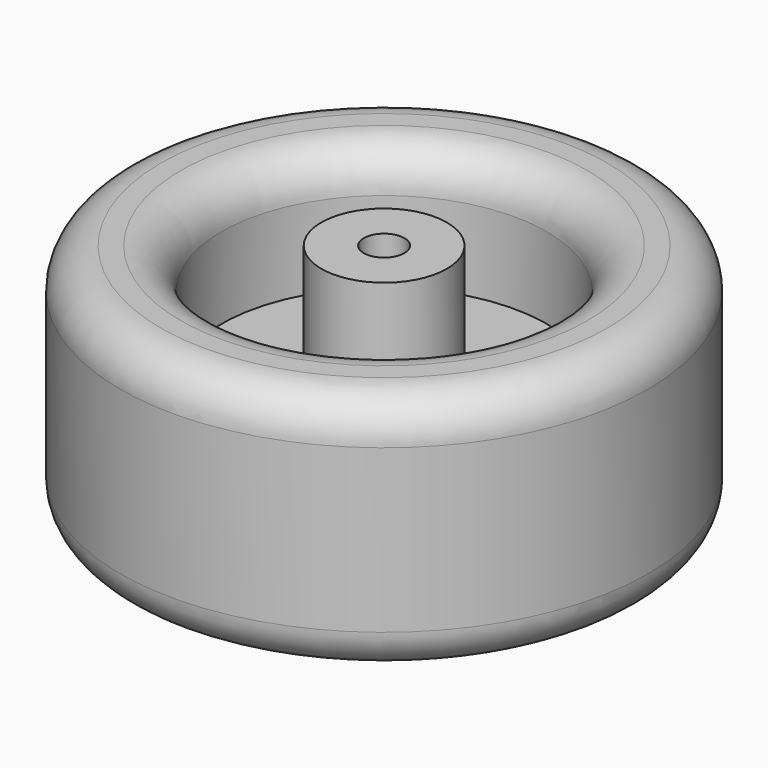
from build123d import *

# Parameters (mm, degrees)
F0_R     = 16.51
F0_R_2   = 10.1780603176
F1_DEPTH = 15.24
F0_R_3   = 3.9258092534
F0_R_4   = 1.27
F2_DEPTH = 7.62
F3_R     = 2.54


with BuildPart() as f1:
    # F0 (on Top) → F1 (new body)
    with BuildSketch(Plane.XY):
        Circle(F0_R)
        Circle(F0_R_2, mode=Mode.SUBTRACT)
    extrude(amount=F1_DEPTH)



with BuildPart() as f1b:
    # F0 (on Top) → F1, piece 2 (new body)
    with BuildSketch(Plane.XY):
        Circle(F0_R_3)
        Circle(F0_R_4, mode=Mode.SUBTRACT)
    extrude(amount=F1_DEPTH)


with BuildPart() as f1_1:
    add(f1.part)

    add(f1b.part)  # F2 merges F1b
    # F0 (on Top) → F2 (join)
    with BuildSketch(Plane.XY):
        Circle(F0_R_2)
        Circle(F0_R_3, mode=Mode.SUBTRACT)
    extrude(amount=F2_DEPTH)

    # F3
    f3_edges = [f1_1.edges().sort_by_distance(p)[0] for p in [
        (-16.51, 0, 15.24),
        (-16.51, 0, 0),
        (-10.17806, 0, 15.24),
    ]]
    fillet(f3_edges, radius=F3_R)


solid = f1_1.part
